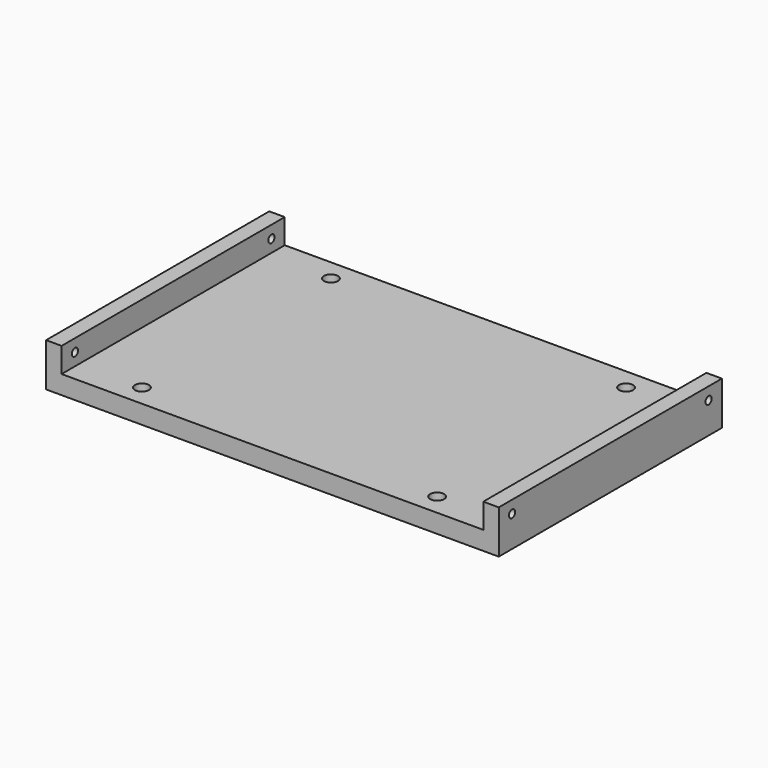
from build123d import *

# Parameters (mm, degrees)
F0_W     = 146.05
F0_H     = 90
F0_R     = 4.5
F0_R_2   = 2.25
F1_DEPTH = 6
F2_DEPTH = 3.5
F3_W     = 90
F3_H     = 14
F3_R     = 1.25
F4_DEPTH = 5
F5_W     = 90
F5_H     = 8
F5_R     = 1.25
F6_DEPTH = 5


with BuildPart() as f1:
    # F0 (on Top) → F1 (new body)
    with BuildSketch(Plane.XY):
        Rectangle(F0_W, F0_H)
        with Locations((-47.625, -38.1)):
            Circle(F0_R, mode=Mode.SUBTRACT)
        with Locations((47.625, -38.1)):
            Circle(F0_R, mode=Mode.SUBTRACT)
        with Locations((-47.625, 38.1)):
            Circle(F0_R, mode=Mode.SUBTRACT)
        with Locations((47.625, 38.1)):
            Circle(F0_R, mode=Mode.SUBTRACT)
        with Locations((-47.625, 38.1)):
            Circle(F0_R)
        with Locations((-47.625, 38.1)):
            Circle(F0_R_2, mode=Mode.SUBTRACT)
        with Locations((-47.625, -38.1)):
            Circle(F0_R)
        with Locations((-47.625, -38.1)):
            Circle(F0_R_2, mode=Mode.SUBTRACT)
        with Locations((47.625, -38.1)):
            Circle(F0_R)
        with Locations((47.625, -38.1)):
            Circle(F0_R_2, mode=Mode.SUBTRACT)
        with Locations((47.625, 38.1)):
            Circle(F0_R)
        with Locations((47.625, 38.1)):
            Circle(F0_R_2, mode=Mode.SUBTRACT)
    extrude(amount=F1_DEPTH)

    # F0 (on Top) → F2 (cut)
    with BuildSketch(Plane.XY):
        with Locations((-47.625, 38.1)):
            Circle(F0_R)
        with Locations((-47.625, 38.1)):
            Circle(F0_R_2, mode=Mode.SUBTRACT)
        with Locations((-47.625, -38.1)):
            Circle(F0_R)
        with Locations((-47.625, -38.1)):
            Circle(F0_R_2, mode=Mode.SUBTRACT)
        with Locations((47.625, -38.1)):
            Circle(F0_R)
        with Locations((47.625, -38.1)):
            Circle(F0_R_2, mode=Mode.SUBTRACT)
        with Locations((47.625, 38.1)):
            Circle(F0_R)
        with Locations((47.625, 38.1)):
            Circle(F0_R_2, mode=Mode.SUBTRACT)
    extrude(amount=F2_DEPTH, mode=Mode.SUBTRACT)

    # F3 (on face) → F4 (join)
    with BuildSketch(Plane.YZ.offset(73.025)):
        with Locations((0, 7)):
            Rectangle(F3_W, F3_H)
        with Locations((-39.625, 10)):
            Circle(F3_R, mode=Mode.SUBTRACT)
        with Locations((39.625, 10)):
            Circle(F3_R, mode=Mode.SUBTRACT)
    extrude(amount=-F4_DEPTH)

    # F5 (on face) → F6 (join)
    with BuildSketch(Plane(origin=(-73.025, 0, 0), x_dir=(0, -1, 0), z_dir=(-1, 0, 0))):
        with Locations((0, 10)):
            Rectangle(F5_W, F5_H)
        with Locations((-39.625, 10)):
            Circle(F5_R, mode=Mode.SUBTRACT)
        with Locations((39.625, 10)):
            Circle(F5_R, mode=Mode.SUBTRACT)
    extrude(amount=-F6_DEPTH)


solid = f1.part
